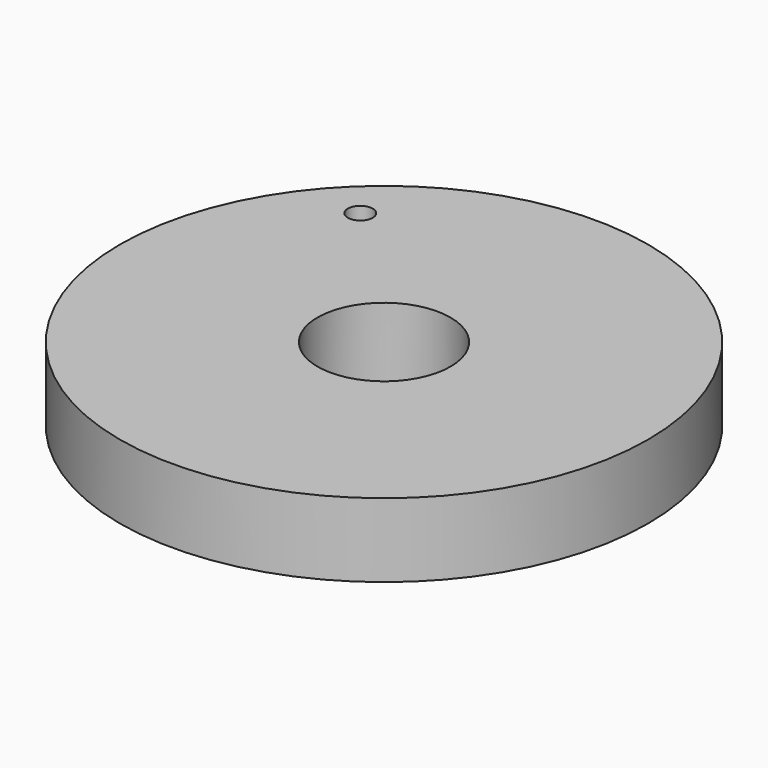
from build123d import *

# Parameters (mm, degrees)
F0_R     = 17.875
F0_R_2   = 4.5
F1_DEPTH = 5
F2_R     = 3.6875
F3_DEPTH = 10
F4_R     = 2.5
F4_R_2   = 1.5
F5_DEPTH = 4
F6_R     = 0.842662
F7_DEPTH = 25


with BuildPart() as f1:
    # F0 (on Top) → F1 (new body)
    with BuildSketch(Plane.XY):
        Circle(F0_R)
        Circle(F0_R_2, mode=Mode.SUBTRACT)
    extrude(amount=F1_DEPTH)

    # F2 (on face) → F3 (join)
    with BuildSketch(Plane.XY.offset(5)):
        with Locations((0, 12.1875)):
            Circle(F2_R)
    extrude(amount=-F3_DEPTH)

    # F4 (on face) → F5 (join)
    with BuildSketch(Plane(origin=(0, 0, -5), x_dir=(1, 0, 0), z_dir=(0, 0, -1))):
        with Locations((0, -12.1875)):
            Circle(F4_R)
        with Locations((0, -12.1875)):
            Circle(F4_R_2, mode=Mode.SUBTRACT)
    extrude(amount=F5_DEPTH)

    # F6 (on Top) → F7 (cut)
    with BuildSketch(Plane.XY):
        with Locations((-10.189319, 10.732485)):
            Circle(F6_R)
    extrude(amount=F7_DEPTH, mode=Mode.SUBTRACT)


solid = f1.part
